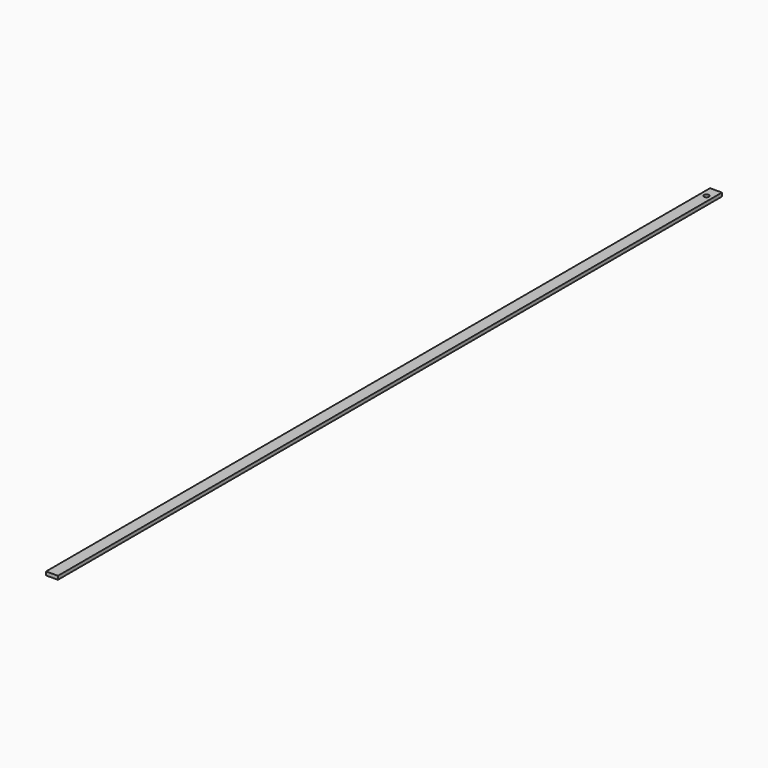
from build123d import *

# Parameters (mm, degrees)
SKETCH_W    = 10
SKETCH_H    = 3
PAD_DEPTH   = 700
SKETCH001_R = 2.1
HOLE_DEPTH  = 3.001


with BuildPart() as part:
    # Sketch → Pad (new body)
    with BuildSketch(Plane.XZ):
        with Locations((-495, 1.5)):
            Rectangle(SKETCH_W, SKETCH_H)
    extrude(amount=PAD_DEPTH)

    # Sketch001 (on Face3 of Pad) → Hole (cut, through all)
    with BuildSketch(Plane(origin=(0, 0, 3), x_dir=(-1, 0, 0), z_dir=(0, 0, 1))):
        with Locations((495, 10)):
            Circle(SKETCH001_R)
    extrude(amount=-HOLE_DEPTH, mode=Mode.SUBTRACT)


solid = part.part
